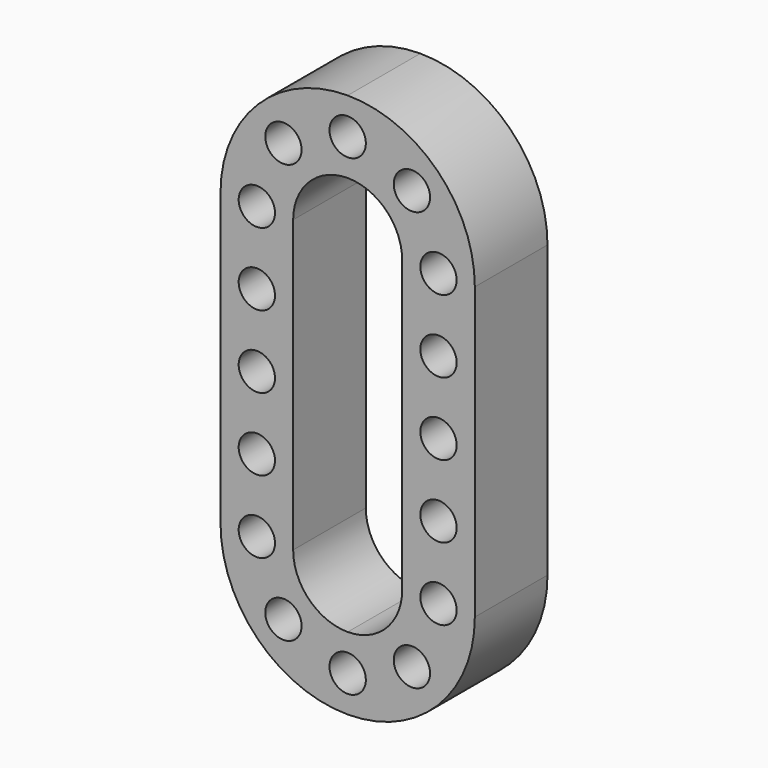
from build123d import *

# Parameters (mm, degrees)
F0_R     = 5
F1_DEPTH = 25


with BuildPart() as f1:
    # F0 (on Front) → F1 (new body)
    with BuildSketch(Plane.XZ):
        with BuildLine():
            ThreePointArc((0, 75), (-24.748737, 64.748737), (-35, 40))
            Line((-35, 40), (-35, 0))
            Line((-35, 0), (-30, 0))
            ThreePointArc((-30, 0), (-25, 5), (-20, 0))
            Line((-20, 0), (-15, 0))
            Line((-15, 0), (-15, 40))
            ThreePointArc((-15, 40), (-10.606602, 50.606602), (0, 55))
            Line((0, 55), (0, 60))
            ThreePointArc((0, 60), (-5, 65), (0, 70))
            Line((0, 70), (0, 75))
        make_face()
        with BuildLine():
            ThreePointArc((-25, 15), (-30, 20), (-25, 25))
            ThreePointArc((-25, 25), (-20, 20), (-25, 15))
        make_face(mode=Mode.SUBTRACT)
        with Locations((-25, 40)):
            Circle(F0_R, mode=Mode.SUBTRACT)
        with Locations((-17.67767, 57.67767)):
            Circle(F0_R, mode=Mode.SUBTRACT)
        with BuildLine():
            ThreePointArc((0, 75), (-24.748737, 64.748737), (-35, 40))
            Line((-35, 40), (-35, 0))
            Line((-35, 0), (-30, 0))
            ThreePointArc((-30, 0), (-25, 5), (-20, 0))
            Line((-20, 0), (-15, 0))
            Line((-15, 0), (-15, 40))
            ThreePointArc((-15, 40), (-10.606602, 50.606602), (0, 55))
            Line((0, 55), (0, 60))
            ThreePointArc((0, 60), (-5, 65), (0, 70))
            Line((0, 70), (0, 75))
        make_face()
        with BuildLine():
            ThreePointArc((-25, 15), (-30, 20), (-25, 25))
            ThreePointArc((-25, 25), (-20, 20), (-25, 15))
        make_face(mode=Mode.SUBTRACT)
        with Locations((-25, 40)):
            Circle(F0_R, mode=Mode.SUBTRACT)
        with Locations((-17.67767, 57.67767)):
            Circle(F0_R, mode=Mode.SUBTRACT)
        with BuildLine():
            ThreePointArc((0, 75), (-24.748737, 64.748737), (-35, 40))
            Line((-35, 40), (-35, 0))
            Line((-35, 0), (-30, 0))
            ThreePointArc((-30, 0), (-25, 5), (-20, 0))
            Line((-20, 0), (-15, 0))
            Line((-15, 0), (-15, 40))
            ThreePointArc((-15, 40), (-10.606602, 50.606602), (0, 55))
            Line((0, 55), (0, 60))
            ThreePointArc((0, 60), (-5, 65), (0, 70))
            Line((0, 70), (0, 75))
        make_face()
        with BuildLine():
            ThreePointArc((-25, 15), (-30, 20), (-25, 25))
            ThreePointArc((-25, 25), (-20, 20), (-25, 15))
        make_face(mode=Mode.SUBTRACT)
        with Locations((-25, 40)):
            Circle(F0_R, mode=Mode.SUBTRACT)
        with Locations((-17.67767, 57.67767)):
            Circle(F0_R, mode=Mode.SUBTRACT)
        with BuildLine():
            ThreePointArc((35, 40), (24.748737, 64.748737), (0, 75))
            Line((0, 75), (0, 70))
            ThreePointArc((0, 70), (5, 65), (0, 60))
            Line((0, 60), (0, 55))
            ThreePointArc((0, 55), (10.606602, 50.606602), (15, 40))
            Line((15, 40), (15, 0))
            Line((15, 0), (20, 0))
            ThreePointArc((20, 0), (25, 5), (30, 0))
            Line((30, 0), (35, 0))
            Line((35, 0), (35, 40))
        make_face()
        with BuildLine():
            ThreePointArc((25, 15), (20, 20), (25, 25))
            ThreePointArc((25, 25), (30, 20), (25, 15))
        make_face(mode=Mode.SUBTRACT)
        with Locations((25, 40)):
            Circle(F0_R, mode=Mode.SUBTRACT)
        with Locations((17.67767, 57.67767)):
            Circle(F0_R, mode=Mode.SUBTRACT)
    extrude(amount=F1_DEPTH)

    # F2: F1 across plane


with BuildPart() as f1_1:
    add(f1.part)
    add(f1.part.mirror(Plane.XY))


solid = f1_1.part
